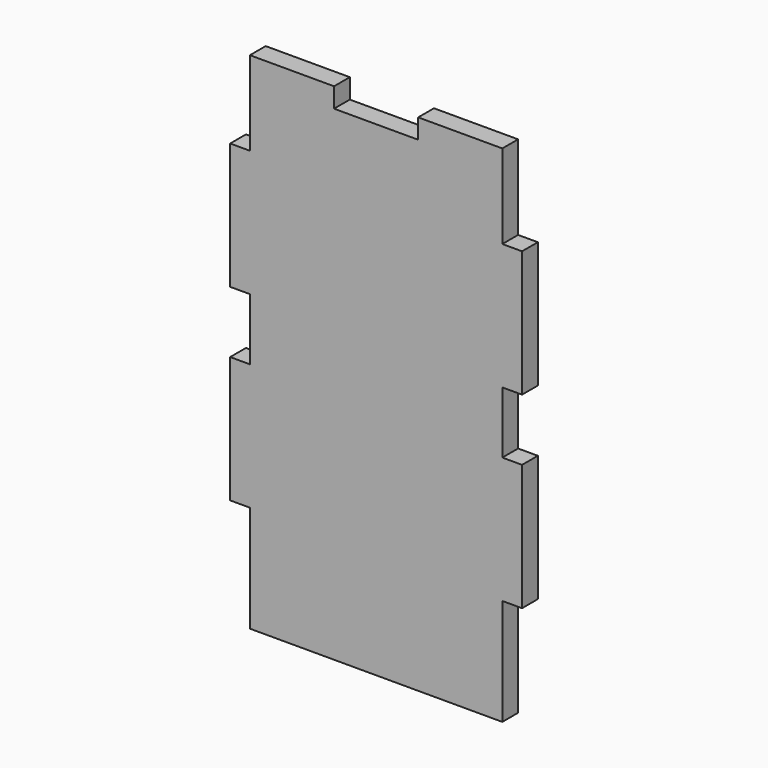
from build123d import *

# Parameters (mm, degrees)
F0_W     = 5.953125
F0_H     = 38.1
F1_DEPTH = 5.953125


with BuildPart() as f1:
    # F0 (on Front) → F1 (new body)
    with BuildSketch(Plane.XZ):
        Polygon((-21.009392, 66.271154), (-46.409392, 66.271154), (-46.409392, 40.871154), (-46.409392, 2.771154), (-46.409392, -15.881971), (-46.409392, -53.981971), (-46.409392, -86.128846), (29.790608, -86.128846), (29.790608, -53.981971), (29.790608, -15.881971), (29.790608, 2.771154), (29.790608, 40.871154), (29.790608, 66.271154), (4.390608, 66.271154), (4.390608, 60.318029), (-21.009392, 60.318029), align=None)
        with Locations((-49.385954, 21.821154)):
            Rectangle(F0_W, F0_H)
        with Locations((-49.385954, -34.931971)):
            Rectangle(F0_W, F0_H)
        with Locations((32.76717, -34.931971)):
            Rectangle(F0_W, F0_H)
        with Locations((32.76717, 21.821154)):
            Rectangle(F0_W, F0_H)
    extrude(amount=F1_DEPTH)


solid = f1.part
